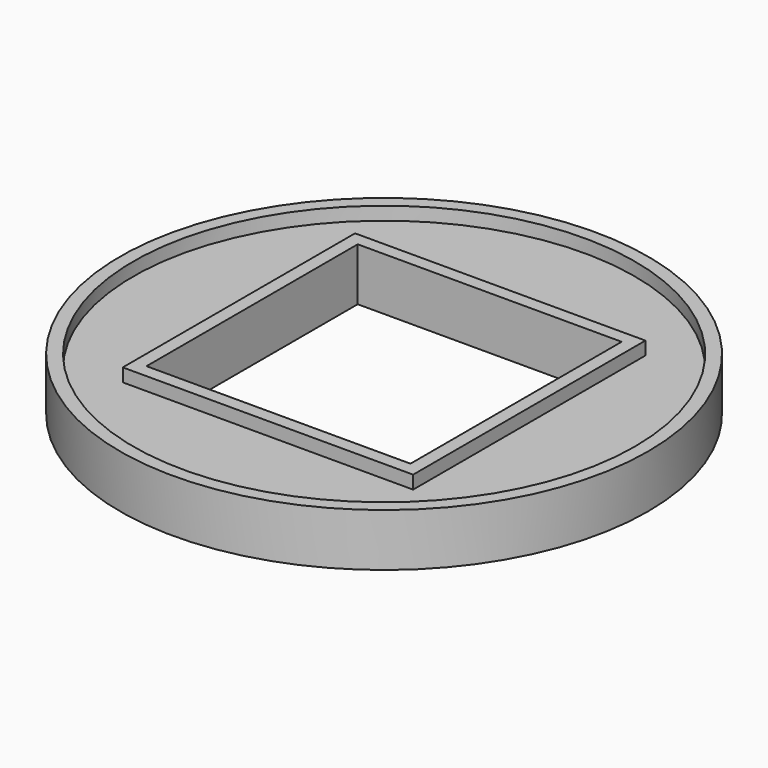
from build123d import *

# Parameters (mm, degrees)
F0_R     = 25.4
F0_W     = 25.4
F0_H     = 25.4
F1_DEPTH = 2.54
F2_R     = 25.4
F2_R_2   = 24.13
F2_W     = 27.94
F2_H     = 27.94
F2_W_2   = 25.4
F2_H_2   = 25.4
F3_DEPTH = 1.27
F4_R     = 25.4
F4_R_2   = 24.13
F4_W     = 27.94
F4_H     = 27.94
F4_W_2   = 25.4
F4_H_2   = 25.4
F5_DEPTH = 1.27


with BuildPart() as f1:
    # F0 (on Top) → F1 (new body)
    with BuildSketch(Plane.XY):
        Circle(F0_R)
        Rectangle(F0_W, F0_H, mode=Mode.SUBTRACT)
    extrude(amount=F1_DEPTH)

    # F2 (on face) → F3 (join)
    with BuildSketch(Plane.XY.offset(2.54)):
        Circle(F2_R)
        Circle(F2_R_2, mode=Mode.SUBTRACT)
        Rectangle(F2_W, F2_H)
        Rectangle(F2_W_2, F2_H_2, mode=Mode.SUBTRACT)
    extrude(amount=F3_DEPTH)

    # F4 (on face) → F5 (join)
    with BuildSketch(Plane(origin=(0, 0, 0), x_dir=(1, 0, 0), z_dir=(0, 0, -1))):
        Circle(F4_R)
        Circle(F4_R_2, mode=Mode.SUBTRACT)
        Rectangle(F4_W, F4_H)
        Rectangle(F4_W_2, F4_H_2, mode=Mode.SUBTRACT)
    extrude(amount=F5_DEPTH)


solid = f1.part
